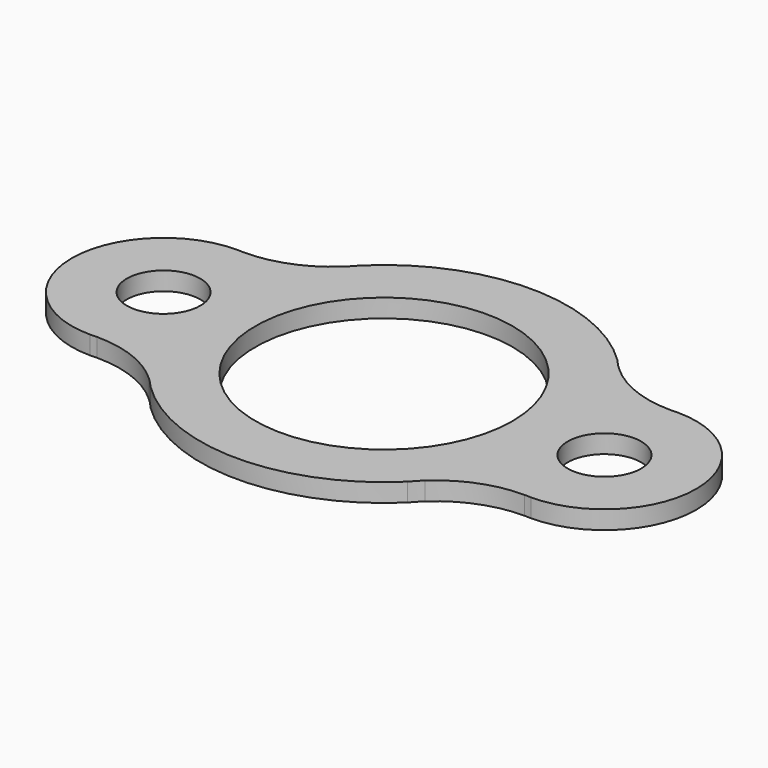
from build123d import *

# Parameters (mm, degrees)
F0_R     = 12.7
F0_R_2   = 44.45
F1_DEPTH = 6.35


with BuildPart() as f1:
    # F0 (on Top) → F1 (new body)
    with BuildSketch(Plane.XY):
        with BuildLine():
            ThreePointArc((47.712301, -41.902104), (59.838485, -34.276829), (73.923391, -31.668274))
            ThreePointArc((73.923391, -31.668274), (75.062306, -31.692118), (76.2, -31.75))
            ThreePointArc((76.2, -31.75), (107.95, 0), (76.2, 31.75))
            ThreePointArc((76.2, 31.75), (75.062306, 31.692118), (73.923391, 31.668274))
            ThreePointArc((73.923391, 31.668274), (59.838485, 34.276829), (47.712301, 41.902104))
            ThreePointArc((47.712301, 41.902104), (46.02745, 43.574249), (44.45, 45.348071))
            ThreePointArc((44.45, 45.348071), (0, 63.5), (-44.45, 45.348071))
            ThreePointArc((-44.45, 45.348071), (-46.02745, 43.574249), (-47.712301, 41.902104))
            ThreePointArc((-47.712301, 41.902104), (-59.838485, 34.276829), (-73.923391, 31.668274))
            ThreePointArc((-73.923391, 31.668274), (-75.062306, 31.692118), (-76.2, 31.75))
            ThreePointArc((-76.2, 31.75), (-107.95, 0), (-76.2, -31.75))
            ThreePointArc((-76.2, -31.75), (-75.062306, -31.692118), (-73.923391, -31.668274))
            ThreePointArc((-73.923391, -31.668274), (-59.838485, -34.276829), (-47.712301, -41.902104))
            ThreePointArc((-47.712301, -41.902104), (-46.02745, -43.574249), (-44.45, -45.348071))
            ThreePointArc((-44.45, -45.348071), (0, -63.5), (44.45, -45.348071))
            ThreePointArc((44.45, -45.348071), (46.02745, -43.574249), (47.712301, -41.902104))
        make_face()
        with Locations((-76.2, 0)):
            Circle(F0_R, mode=Mode.SUBTRACT)
        Circle(F0_R_2, mode=Mode.SUBTRACT)
        with Locations((76.2, 0)):
            Circle(F0_R, mode=Mode.SUBTRACT)
    extrude(amount=F1_DEPTH)


solid = f1.part
